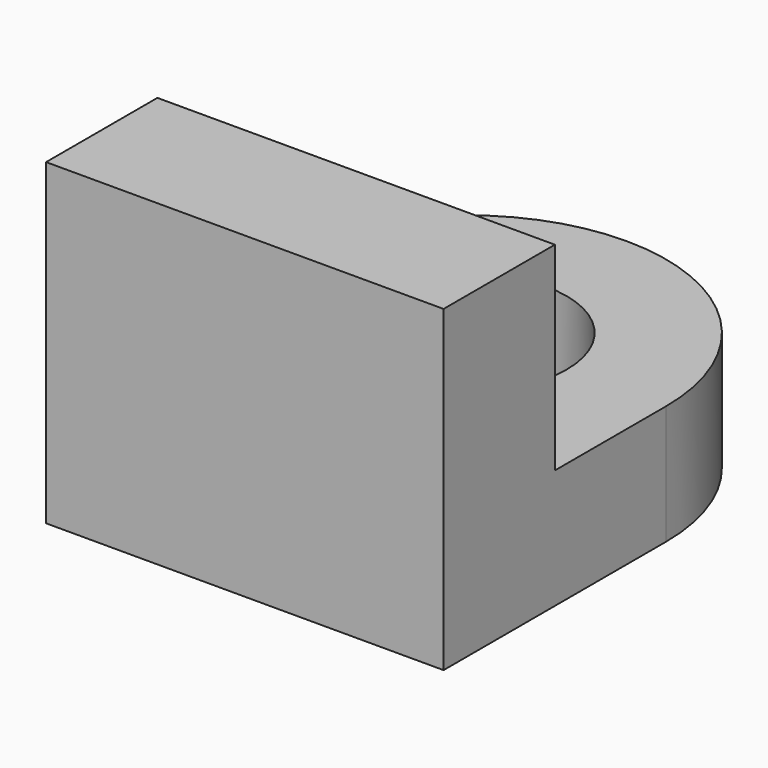
from build123d import *

# Parameters (mm, degrees)
F0_W     = 63.5
F0_H     = 44.45
F1_DEPTH = 19.05
F2_R     = 15.875
F3_DEPTH = 25.4
F4_W     = 63.5
F4_H     = 22.225
F5_DEPTH = 50.8


with BuildPart() as f1:
    # F0 (on Top) → F1 (new body)
    with BuildSketch(Plane.XY):
        Rectangle(F0_W, F0_H)
        with BuildLine():
            Line((-31.75, 22.225), (31.75, 22.225))
            ThreePointArc((31.75, 22.225), (0, 53.975), (-31.75, 22.225))
        make_face()
    extrude(amount=F1_DEPTH)

    # F2 (on face) → F3 (cut)
    with BuildSketch(Plane.XY.offset(19.05)):
        with Locations((0, 22.225)):
            Circle(F2_R)
    extrude(amount=-F3_DEPTH, mode=Mode.SUBTRACT)

    # F4 (on Top) → F5 (join)
    with BuildSketch(Plane.XY):
        with Locations((0, -11.1125)):
            Rectangle(F4_W, F4_H)
    extrude(amount=F5_DEPTH)


solid = f1.part
